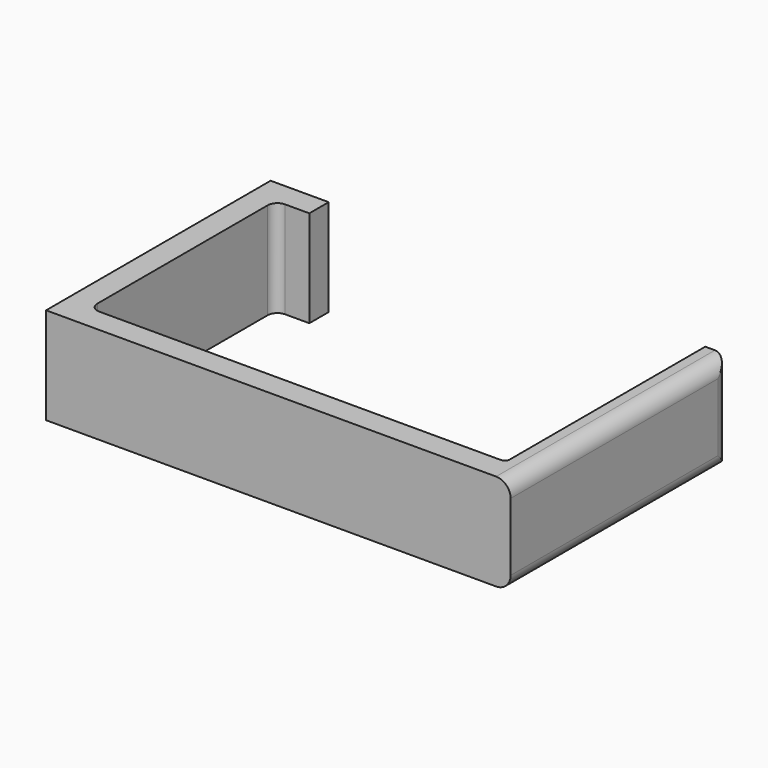
from build123d import *

# Parameters (mm, degrees)
F1_DEPTH = 20
F2_R     = 1
F3_R     = 2
F4_R     = 3


with BuildPart() as f1:
    # F0 (on Top) → F1 (new body)
    with BuildSketch(Plane.XY):
        Polygon((0, -4.999999), (0, 0), (-86, 0), (-86, 48), (-79, 48), (-79, 52.999999), (-90.999999, 52.999999), (-90.999999, -4.999999), align=None)
        Polygon((0, 51.528051), (0, 0), (0, -4.999999), (5, -4.999999), (5, 0), (5, 51.528051), align=None)
    extrude(amount=F1_DEPTH)

    # F2
    f2_edges = [f1.edges().sort_by_distance(p)[0] for p in [
        (0, 0, 10),
    ]]
    fillet(f2_edges, radius=F2_R)

    # F3
    f3_edges = [f1.edges().sort_by_distance(p)[0] for p in [
        (-86, 48, 10),
        (-86, 0, 10),
    ]]
    fillet(f3_edges, radius=F3_R)

    # F4
    f4_edges = [f1.edges().sort_by_distance(p)[0] for p in [
        (5, 23.264026, 0),
        (5, 51.528051, 10),
        (5, 23.264026, 20),
    ]]
    fillet(f4_edges, radius=F4_R)


solid = f1.part
